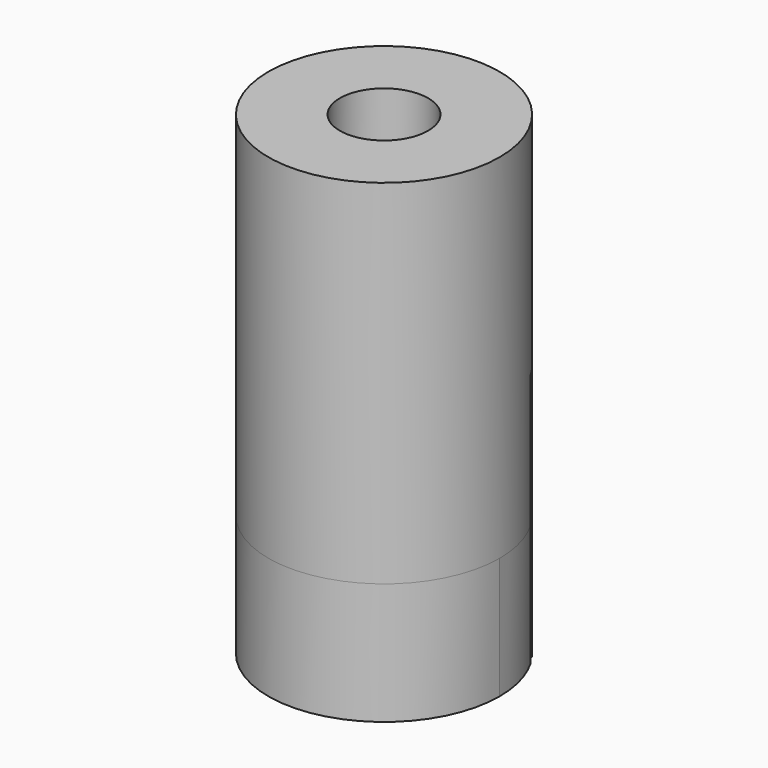
from build123d import *

# Parameters (mm, degrees)
F1_R          = 13.105
F1_R_2        = 5
F2_DEPTH      = 13.77
F2_DEPTH_BACK = 40
F4_W          = 2.51
F4_H          = 1.41
F4_W_2        = 2.9429391259
F4_H_2        = 1.44
F4_W_3        = 0.4070608741
F4_H_3        = 2.21
F5_DEPTH      = 28.77


with BuildPart() as f2:
    # F1 (on Top) → F2 (new body, two sides)
    with BuildSketch(Plane.XY) as f2_sk:
        Circle(F1_R)
        Circle(F1_R_2, mode=Mode.SUBTRACT)
    extrude(amount=-F2_DEPTH)
    extrude(f2_sk.sketch, amount=F2_DEPTH_BACK)

    # F4 (on offset) → F5 (cut)
    with BuildSketch(Plane.XY.offset(15)):
        with Locations((2.2699399906, -6.4672684696)):
            Rectangle(F4_W, F4_H)
        Polygon((-6.3350600094, -3.5522684696), (-9.2779991353, -3.5522684696), (-9.2779991353, -5.7622684696), (-6.3350600094, -5.7622684696), (1.0149399906, -5.7622684696), (3.5249399906, -5.7622684696), (10.9149399906, -5.7622684696), (10.9149399906, -3.5522684696), align=None)
        with BuildLine():
            ThreePointArc((11.3220008647, 6.7277315304), (2.4934704277, 11.4417501839), (-6.3350600094, 6.7277315304))
            Line((-6.3350600094, 6.7277315304), (11.3220008647, 6.7277315304))
        make_face()
        Polygon((-6.3350600094, -2.1122684696), (-6.3350600094, -3.5522684696), (10.9149399906, -3.5522684696), (11.3220008647, -3.5522684696), (11.3220008647, 6.7277315304), (-6.3350600094, 6.7277315304), align=None)
        with Locations((-7.8065295723, -2.8322684696)):
            Rectangle(F4_W_2, F4_H_2)
        with Locations((11.1184704277, -4.6572684696)):
            Rectangle(F4_W_3, F4_H_3)
    extrude(amount=-F5_DEPTH, mode=Mode.SUBTRACT)


solid = f2.part
